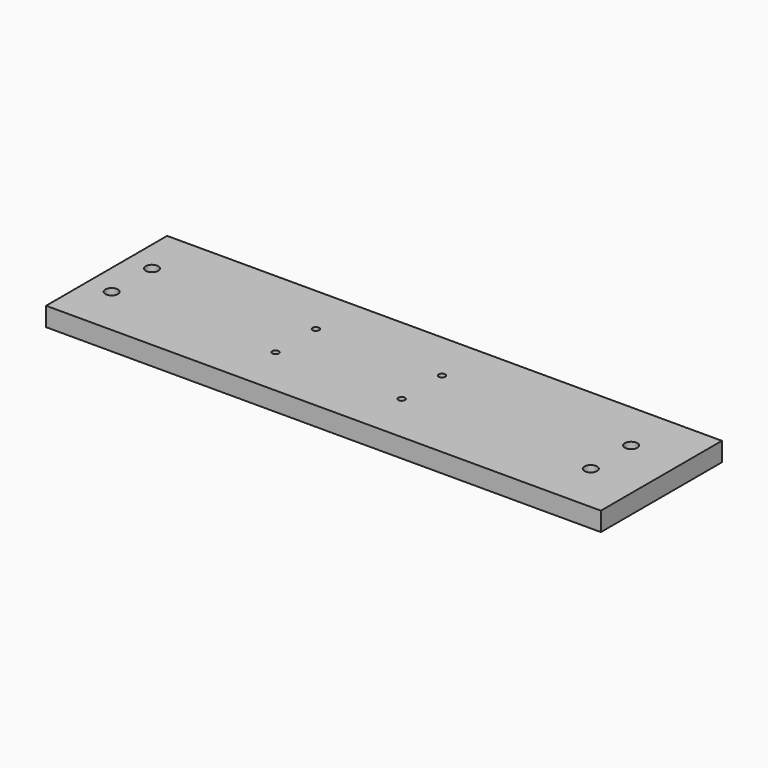
from build123d import *

# Parameters (mm, degrees)
F0_W     = 279.4
F0_H     = 76.2
F1_DEPTH = 9.525
F2_R     = 3.175
F2_R_2   = 1.651
F3_DEPTH = 25.4


with BuildPart() as f1:
    # F0 (on Top) → F1 (new body)
    with BuildSketch(Plane.XY):
        Rectangle(F0_W, F0_H)
    extrude(amount=F1_DEPTH)

    # F2 (on face) → F3 (cut)
    with BuildSketch(Plane.XY.offset(9.525)):
        with Locations((114.3, -12.7)):
            Circle(F2_R)
        with Locations((114.3, 12.7)):
            Circle(F2_R)
        with Locations((19.05, 12.7)):
            Circle(F2_R_2)
        with Locations((19.05, -12.7)):
            Circle(F2_R_2)
        with Locations((-44.45, 12.7)):
            Circle(F2_R_2)
        with Locations((-44.45, -12.7)):
            Circle(F2_R_2)
        with Locations((-127, 12.7)):
            Circle(F2_R)
        with Locations((-127, -12.7)):
            Circle(F2_R)
    extrude(amount=-F3_DEPTH, mode=Mode.SUBTRACT)


solid = f1.part
